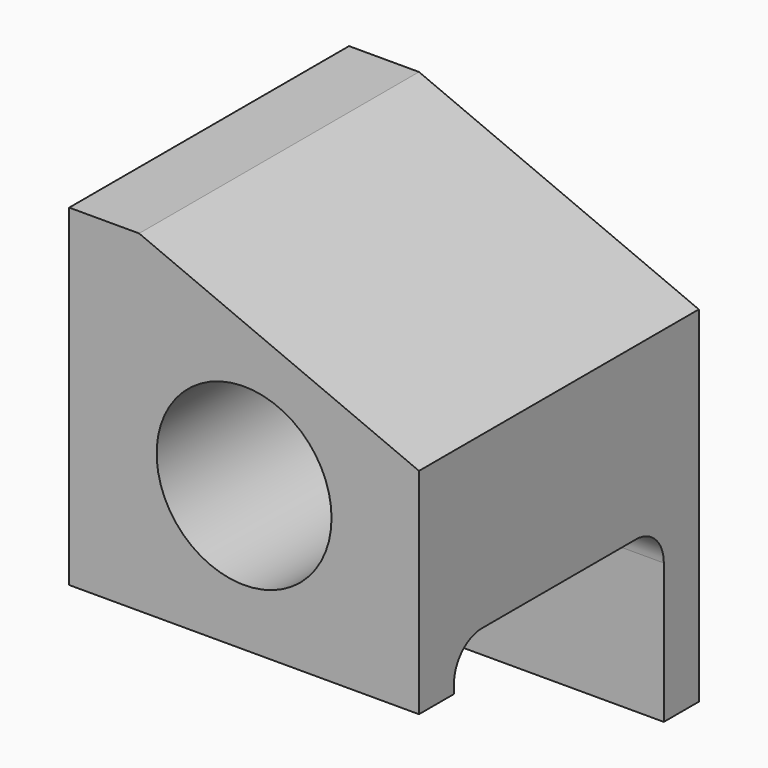
from build123d import *

# Parameters (mm, degrees)
F0_R      = 10
F1_DEPTH  = 20
F1_FACE_W = 40
F1_FACE_H = 40
F2_DEPTH  = 10
F4_DEPTH  = 40.001
F5_R      = 4


with BuildPart() as f1:
    # F0 (on Front) → F1 (new body, symmetric)
    with BuildSketch(Plane.XZ):
        Polygon((-12, 21.5), (-20, 21.5), (-20, -21.5), (20, -21.5), (20, 8), align=None)
        Circle(F0_R, mode=Mode.SUBTRACT)
    extrude(amount=F1_DEPTH, both=True)

    # F1_face (on face) → F2 (join)
    with BuildSketch(Plane(origin=(0, 0, -21.5), x_dir=(1, 0, 0), z_dir=(0, 0, -1))):
        Rectangle(F1_FACE_W, F1_FACE_H)
    extrude(amount=F2_DEPTH)

    # F3 (on face) → F4 (cut, through all)
    with BuildSketch(Plane(origin=(-20, 0, 0), x_dir=(0, -1, 0), z_dir=(-1, 0, 0))):
        Polygon((-15, -11.5), (-15, -31.5), (20, -31.5), (20, -16.5), (15, -16.5), (15, -11.5), align=None)
    extrude(amount=-F4_DEPTH, mode=Mode.SUBTRACT)

    # F5
    f5_edges = [f1.edges().sort_by_distance(p)[0] for p in [
        (0, 15, -11.5),
        (0, -15, -11.5),
    ]]
    fillet(f5_edges, radius=F5_R)


solid = f1.part
